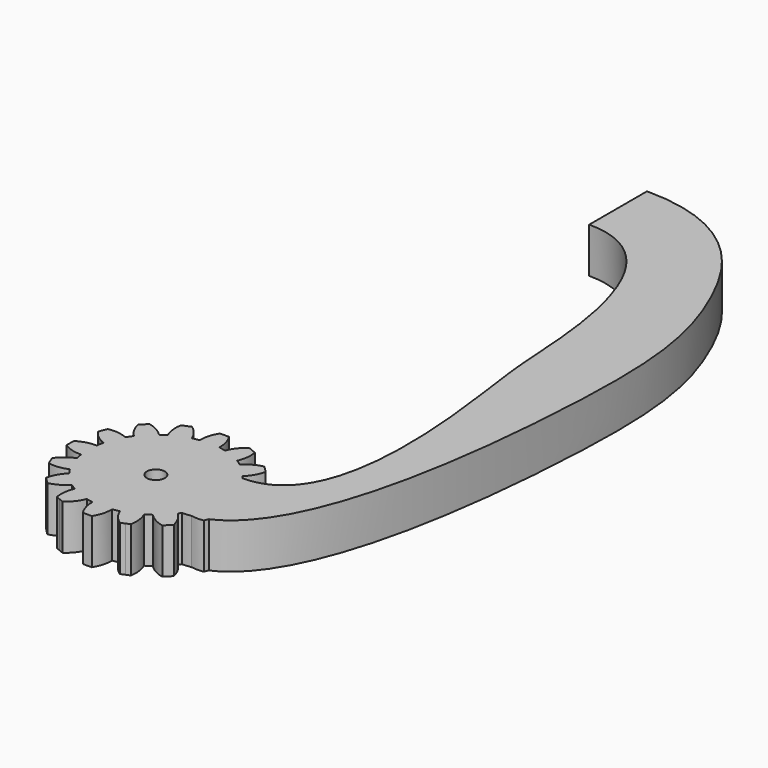
from build123d import *

# Parameters (mm, degrees)
F1_DEPTH = 5
F2_R     = 1
F3_DEPTH = 5.001
F5_DEPTH = 5


with BuildPart() as f1:
    # F0 (on Top) → F1 (new body)
    with BuildSketch(Plane.XY):
        with BuildLine():
            ThreePointArc((7.4206173165, -1.0883191822), (7.4801280027, -0.5456052265), (7.5, 0))
            ThreePointArc((7.5, 0), (7.4801280027, 0.5456052265), (7.4206173165, 1.0883191822))
            ThreePointArc((7.4206173165, 1.0883191822), (7.355889603, 1.4631774151), (7.2722381774, 1.8342714877))
            ThreePointArc((7.2722381774, 1.8342714877), (6.9290964938, 2.8701257427), (6.4392747372, 3.8452231222))
            ThreePointArc((6.4392747372, 3.8452231222), (6.2360220923, 4.1667767476), (6.0167266989, 4.4776109513))
            ThreePointArc((6.0167266989, 4.4776109513), (5.3033008589, 5.3033008589), (4.4776109513, 6.0167266989))
            ThreePointArc((4.4776109513, 6.0167266989), (4.1667767476, 6.2360220923), (3.8452231222, 6.4392747372))
            ThreePointArc((3.8452231222, 6.4392747372), (2.8701257427, 6.9290964938), (1.8342714877, 7.2722381774))
            ThreePointArc((1.8342714877, 7.2722381774), (1.4631774151, 7.355889603), (1.0883191822, 7.4206173165))
            ThreePointArc((1.0883191822, 7.4206173165), (0, 7.5), (-1.0883191822, 7.4206173165))
            ThreePointArc((-1.0883191822, 7.4206173165), (-1.4631774151, 7.355889603), (-1.8342714877, 7.2722381774))
            ThreePointArc((-1.8342714877, 7.2722381774), (-2.8701257427, 6.9290964938), (-3.8452231222, 6.4392747372))
            ThreePointArc((-3.8452231222, 6.4392747372), (-4.1667767476, 6.2360220923), (-4.4776109513, 6.0167266989))
            ThreePointArc((-4.4776109513, 6.0167266989), (-5.3033008589, 5.3033008589), (-6.0167266989, 4.4776109513))
            ThreePointArc((-6.0167266989, 4.4776109513), (-6.2360220923, 4.1667767476), (-6.4392747372, 3.8452231222))
            ThreePointArc((-6.4392747372, 3.8452231222), (-6.9290964938, 2.8701257427), (-7.2722381774, 1.8342714877))
            ThreePointArc((-7.2722381774, 1.8342714877), (-7.355889603, 1.4631774151), (-7.4206173165, 1.0883191822))
            ThreePointArc((-7.4206173165, 1.0883191822), (-7.5, 0), (-7.4206173165, -1.0883191822))
            ThreePointArc((-7.4206173165, -1.0883191822), (-7.355889603, -1.4631774151), (-7.2722381774, -1.8342714877))
            ThreePointArc((-7.2722381774, -1.8342714877), (-6.9290964938, -2.8701257427), (-6.4392747372, -3.8452231222))
            ThreePointArc((-6.4392747372, -3.8452231222), (-6.2360220923, -4.1667767476), (-6.0167266989, -4.4776109513))
            ThreePointArc((-6.0167266989, -4.4776109513), (-5.3033008589, -5.3033008589), (-4.4776109513, -6.0167266989))
            ThreePointArc((-4.4776109513, -6.0167266989), (-4.1667767476, -6.2360220923), (-3.8452231222, -6.4392747372))
            ThreePointArc((-3.8452231222, -6.4392747372), (-2.8701257427, -6.9290964938), (-1.8342714877, -7.2722381774))
            ThreePointArc((-1.8342714877, -7.2722381774), (-1.4631774151, -7.355889603), (-1.0883191822, -7.4206173165))
            ThreePointArc((-1.0883191822, -7.4206173165), (0, -7.5), (1.0883191822, -7.4206173165))
            ThreePointArc((1.0883191822, -7.4206173165), (1.4631774151, -7.355889603), (1.8342714877, -7.2722381774))
            ThreePointArc((1.8342714877, -7.2722381774), (2.8701257427, -6.9290964938), (3.8452231222, -6.4392747372))
            ThreePointArc((3.8452231222, -6.4392747372), (4.1667767476, -6.2360220923), (4.4776109513, -6.0167266989))
            ThreePointArc((4.4776109513, -6.0167266989), (5.3033008589, -5.3033008589), (6.0167266989, -4.4776109513))
            ThreePointArc((6.0167266989, -4.4776109513), (6.2360220923, -4.1667767476), (6.4392747372, -3.8452231222))
            ThreePointArc((6.4392747372, -3.8452231222), (6.9290964938, -2.8701257427), (7.2722381774, -1.8342714877))
            ThreePointArc((7.2722381774, -1.8342714877), (7.355889603, -1.4631774151), (7.4206173165, -1.0883191822))
        make_face()
        with BuildLine():
            ThreePointArc((7.4206173165, 1.0883191822), (7.4801280027, 0.5456052265), (7.5, 0))
            ThreePointArc((7.5, 0), (7.4801280027, -0.5456052265), (7.4206173165, -1.0883191822))
            ThreePointArc((7.4206173165, -1.0883191822), (8.5043518229, -0.9498278009), (9.5, -0.5))
            Line((9.5, -0.5), (9.5, 0))
            Line((9.5, 0), (9.5, 0.5))
            ThreePointArc((9.5, 0.5), (8.5043518229, 0.9498278009), (7.4206173165, 1.0883191822))
        make_face()
        with BuildLine():
            ThreePointArc((6.4392747372, 3.8452231222), (6.9290964938, 2.8701257427), (7.2722381774, 1.8342714877))
            ThreePointArc((7.2722381774, 1.8342714877), (8.2204799494, 2.376948081), (8.968197275, 3.1735528412))
            Line((8.968197275, 3.1735528412), (8.7768555589, 3.6354926075))
            Line((8.7768555589, 3.6354926075), (8.5855138427, 4.0974323737))
            ThreePointArc((8.5855138427, 4.0974323737), (7.4935132234, 4.1320010103), (6.4392747372, 3.8452231222))
        make_face()
        with BuildLine():
            ThreePointArc((8.968197275, -3.1735528412), (8.2204799494, -2.376948081), (7.2722381774, -1.8342714877))
            ThreePointArc((7.2722381774, -1.8342714877), (6.9290964938, -2.8701257427), (6.4392747372, -3.8452231222))
            ThreePointArc((6.4392747372, -3.8452231222), (7.4935132234, -4.1320010103), (8.5855138427, -4.0974323737))
            Line((8.5855138427, -4.0974323737), (8.7768555589, -3.6354926075))
            Line((8.7768555589, -3.6354926075), (8.968197275, -3.1735528412))
        make_face()
        with BuildLine():
            ThreePointArc((4.4776109513, 6.0167266989), (5.3033008589, 5.3033008589), (6.0167266989, 4.4776109513))
            ThreePointArc((6.0167266989, 4.4776109513), (6.6851145225, 5.3418551646), (7.0710678119, 6.3639610307))
            Line((7.0710678119, 6.3639610307), (6.7175144213, 6.7175144213))
            Line((6.7175144213, 6.7175144213), (6.3639610307, 7.0710678119))
            ThreePointArc((6.3639610307, 7.0710678119), (5.3418551646, 6.6851145225), (4.4776109513, 6.0167266989))
        make_face()
        with BuildLine():
            ThreePointArc((7.0710678119, -6.3639610307), (6.6851145225, -5.3418551646), (6.0167266989, -4.4776109513))
            ThreePointArc((6.0167266989, -4.4776109513), (5.3033008589, -5.3033008589), (4.4776109513, -6.0167266989))
            ThreePointArc((4.4776109513, -6.0167266989), (5.3418551646, -6.6851145225), (6.3639610307, -7.0710678119))
            Line((6.3639610307, -7.0710678119), (6.7175144213, -6.7175144213))
            Line((6.7175144213, -6.7175144213), (7.0710678119, -6.3639610307))
        make_face()
        with BuildLine():
            ThreePointArc((1.8342714877, 7.2722381774), (2.8701257427, 6.9290964938), (3.8452231222, 6.4392747372))
            ThreePointArc((3.8452231222, 6.4392747372), (4.1320010103, 7.4935132234), (4.0974323737, 8.5855138427))
            Line((4.0974323737, 8.5855138427), (3.6354926075, 8.7768555589))
            Line((3.6354926075, 8.7768555589), (3.1735528412, 8.968197275))
            ThreePointArc((3.1735528412, 8.968197275), (2.376948081, 8.2204799494), (1.8342714877, 7.2722381774))
        make_face()
        with BuildLine():
            ThreePointArc((4.0974323737, -8.5855138427), (4.1320010103, -7.4935132234), (3.8452231222, -6.4392747372))
            ThreePointArc((3.8452231222, -6.4392747372), (2.8701257427, -6.9290964938), (1.8342714877, -7.2722381774))
            ThreePointArc((1.8342714877, -7.2722381774), (2.376948081, -8.2204799494), (3.1735528412, -8.968197275))
            Line((3.1735528412, -8.968197275), (3.6354926075, -8.7768555589))
            Line((3.6354926075, -8.7768555589), (4.0974323737, -8.5855138427))
        make_face()
        with BuildLine():
            ThreePointArc((-1.0883191822, 7.4206173165), (0, 7.5), (1.0883191822, 7.4206173165))
            ThreePointArc((1.0883191822, 7.4206173165), (0.9498278009, 8.5043518229), (0.5, 9.5))
            Line((0.5, 9.5), (0, 9.5))
            Line((0, 9.5), (-0.5, 9.5))
            ThreePointArc((-0.5, 9.5), (-0.9498278009, 8.5043518229), (-1.0883191822, 7.4206173165))
        make_face()
        with BuildLine():
            ThreePointArc((0.5, -9.5), (0.9498278009, -8.5043518229), (1.0883191822, -7.4206173165))
            ThreePointArc((1.0883191822, -7.4206173165), (0, -7.5), (-1.0883191822, -7.4206173165))
            ThreePointArc((-1.0883191822, -7.4206173165), (-0.9498278009, -8.5043518229), (-0.5, -9.5))
            Line((-0.5, -9.5), (0, -9.5))
            Line((0, -9.5), (0.5, -9.5))
        make_face()
        with BuildLine():
            ThreePointArc((-3.8452231222, 6.4392747372), (-2.8701257427, 6.9290964938), (-1.8342714877, 7.2722381774))
            ThreePointArc((-1.8342714877, 7.2722381774), (-2.376948081, 8.2204799494), (-3.1735528412, 8.968197275))
            Line((-3.1735528412, 8.968197275), (-3.6354926075, 8.7768555589))
            Line((-3.6354926075, 8.7768555589), (-4.0974323737, 8.5855138427))
            ThreePointArc((-4.0974323737, 8.5855138427), (-4.1320010103, 7.4935132234), (-3.8452231222, 6.4392747372))
        make_face()
        with BuildLine():
            ThreePointArc((-3.1735528412, -8.968197275), (-2.376948081, -8.2204799494), (-1.8342714877, -7.2722381774))
            ThreePointArc((-1.8342714877, -7.2722381774), (-2.8701257427, -6.9290964938), (-3.8452231222, -6.4392747372))
            ThreePointArc((-3.8452231222, -6.4392747372), (-4.1320010103, -7.4935132234), (-4.0974323737, -8.5855138427))
            Line((-4.0974323737, -8.5855138427), (-3.6354926075, -8.7768555589))
            Line((-3.6354926075, -8.7768555589), (-3.1735528412, -8.968197275))
        make_face()
        with BuildLine():
            ThreePointArc((-6.0167266989, 4.4776109513), (-5.3033008589, 5.3033008589), (-4.4776109513, 6.0167266989))
            ThreePointArc((-4.4776109513, 6.0167266989), (-5.3418551646, 6.6851145225), (-6.3639610307, 7.0710678119))
            Line((-6.3639610307, 7.0710678119), (-6.7175144213, 6.7175144213))
            Line((-6.7175144213, 6.7175144213), (-7.0710678119, 6.3639610307))
            ThreePointArc((-7.0710678119, 6.3639610307), (-6.6851145225, 5.3418551646), (-6.0167266989, 4.4776109513))
        make_face()
        with BuildLine():
            ThreePointArc((-6.3639610307, -7.0710678119), (-5.3418551646, -6.6851145225), (-4.4776109513, -6.0167266989))
            ThreePointArc((-4.4776109513, -6.0167266989), (-5.3033008589, -5.3033008589), (-6.0167266989, -4.4776109513))
            ThreePointArc((-6.0167266989, -4.4776109513), (-6.6851145225, -5.3418551646), (-7.0710678119, -6.3639610307))
            Line((-7.0710678119, -6.3639610307), (-6.7175144213, -6.7175144213))
            Line((-6.7175144213, -6.7175144213), (-6.3639610307, -7.0710678119))
        make_face()
        with BuildLine():
            ThreePointArc((-7.2722381774, 1.8342714877), (-6.9290964938, 2.8701257427), (-6.4392747372, 3.8452231222))
            ThreePointArc((-6.4392747372, 3.8452231222), (-7.4935132234, 4.1320010103), (-8.5855138427, 4.0974323737))
            Line((-8.5855138427, 4.0974323737), (-8.7768555589, 3.6354926075))
            Line((-8.7768555589, 3.6354926075), (-8.968197275, 3.1735528412))
            ThreePointArc((-8.968197275, 3.1735528412), (-8.2204799494, 2.376948081), (-7.2722381774, 1.8342714877))
        make_face()
        with BuildLine():
            ThreePointArc((-8.5855138427, -4.0974323737), (-7.4935132234, -4.1320010103), (-6.4392747372, -3.8452231222))
            ThreePointArc((-6.4392747372, -3.8452231222), (-6.9290964938, -2.8701257427), (-7.2722381774, -1.8342714877))
            ThreePointArc((-7.2722381774, -1.8342714877), (-8.2204799494, -2.376948081), (-8.968197275, -3.1735528412))
            Line((-8.968197275, -3.1735528412), (-8.7768555589, -3.6354926075))
            Line((-8.7768555589, -3.6354926075), (-8.5855138427, -4.0974323737))
        make_face()
        with BuildLine():
            ThreePointArc((-7.4206173165, -1.0883191822), (-7.5, 0), (-7.4206173165, 1.0883191822))
            ThreePointArc((-7.4206173165, 1.0883191822), (-8.5043518229, 0.9498278009), (-9.5, 0.5))
            Line((-9.5, 0.5), (-9.5, 0))
            Line((-9.5, 0), (-9.5, -0.5))
            ThreePointArc((-9.5, -0.5), (-8.5043518229, -0.9498278009), (-7.4206173165, -1.0883191822))
        make_face()
    extrude(amount=F1_DEPTH)

    # F2 (on face) → F3 (cut, through all)
    with BuildSketch(Plane.XY.offset(5)):
        Circle(F2_R)
    extrude(amount=-F3_DEPTH, mode=Mode.SUBTRACT)

    # F4 (on Top) → F5 (join, through all)
    with BuildSketch(Plane.XY):
        with BuildLine():
            Line((0, 68), (0, 60))
            add(Edge.make_bspline(
                [(0, 60), (10, 60), (11.7747784616, 36.641096379), (11.7195041535, 34.6490253416), (16.2360220923, 4.1667767476), (6.2360220923, 4.1667767476)],
                knots=[0, 0, 0, 0, 0.3765565643, 0.5905875626, 1, 1, 1, 1], degree=3))
            Line((6.2360220923, 4.1667767476), (6.2360220923, -4.1667767476))
            add(Edge.make_bspline(
                [(0, 68), (10, 68), (19.0348554769, 54.3871049974), (21.3475598799, 35.9103301278), (16.2360220923, -4.1667767476), (6.2360220923, -4.1667767476)],
                knots=[0, 0, 0, 0, 0.2947790511, 0.5999067534, 1, 1, 1, 1], degree=3))
        make_face()
    extrude(amount=F5_DEPTH)


solid = f1.part
